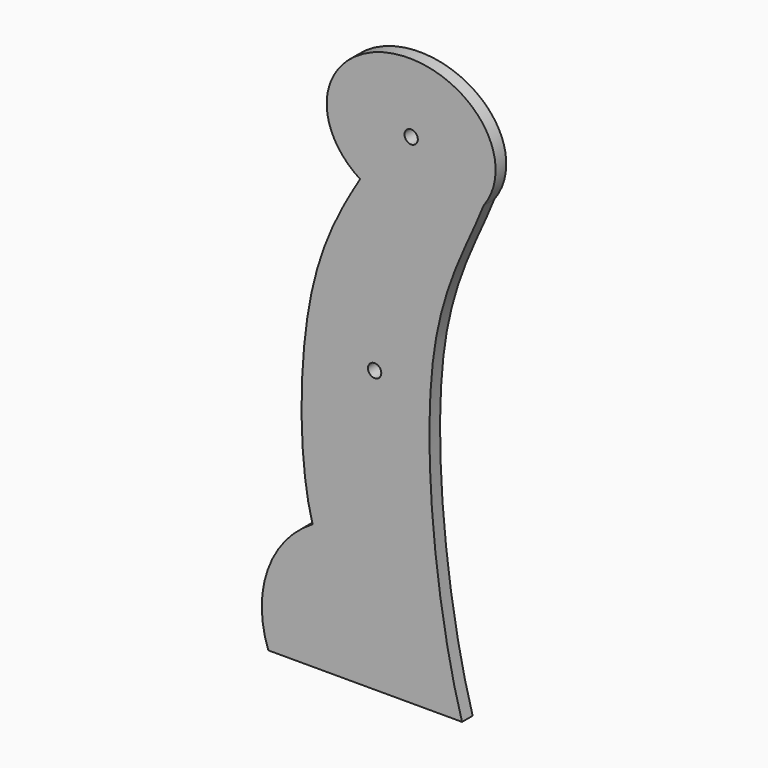
from build123d import *

# Parameters (mm, degrees)
F0_R     = 1.6
F1_DEPTH = 3.2
F2_DEPTH = 3.2010001


with BuildPart() as f1:
    # F0 (on Front) → F1 (new body)
    with BuildSketch(Plane.XZ):
        with BuildLine():
            Line((-25.5810216412, -48.3824339509), (21.0424683918, -48.3824339509))
            add(Edge.make_bspline(
                [(21.0424683918, -48.3824339509), (15.0553516547, -27.9676929951), (8.0965992639, 30.5672769191), (23.0166880517, 54.3425780011), (26.2280006902, 62.7438225516)],
                knots=[0, 0, 0, 0, 0.5992884336, 1, 1, 1, 1], degree=3))
            add(Edge.make_bspline(
                [(-3.4949489511, 58.6761125547), (14.5644131665, 47.1441731408), (26.2280006902, 62.7438225516)],
                knots=[0.9705727989, 0.9705727989, 0.9705727989, 2.6501995807, 2.6501995807, 2.6501995807], degree=2, weights=[1, 0.6676017714, 1]))
            add(Edge.make_bspline(
                [(-14.9455404435, -18.2068239581), (-18.4407745771, -5.8257132268), (-18.3102826694, 31.5612182002), (-8.7948256364, 49.9442476446), (-3.4949489511, 58.6761125547)],
                knots=[4.70329e-05, 4.70329e-05, 4.70329e-05, 4.70329e-05, 0.552918371, 1, 1, 1, 1], degree=3))
            ThreePointArc((-14.9455404435, -18.2068239581), (-25.7517393276, -31.3602059251), (-25.5810216412, -48.3824339509))
        make_face()
        with Locations((0, 19.2210804671)):
            Circle(F0_R, mode=Mode.SUBTRACT)
        with BuildLine():
            add(Edge.make_bspline(
                [(-3.4949489511, 58.6761125547), (14.5644131665, 47.1441731408), (26.2280006902, 62.7438225516)],
                knots=[0.9705727989, 0.9705727989, 0.9705727989, 2.6501995807, 2.6501995807, 2.6501995807], degree=2, weights=[1, 0.6676017714, 1]))
            add(Edge.make_bspline(
                [(26.2280006902, 62.7438225516), (39.6330624716, 80.6726342227), (14.6995807554, 87.3438953608), (-10.2339009609, 94.015156499), (-11.5097213972, 72.8410164241)],
                knots=[2.6501995807, 2.6501995807, 2.6501995807, 4.4666924439, 4.4666924439, 6.2831853072, 6.2831853072, 6.2831853072], degree=2, weights=[1, 0.6151292539, 1, 0.6151292539, 1]))
            add(Edge.make_bspline(
                [(-11.5097213972, 72.8410164241), (-12.0346408701, 64.1291960679), (-3.4949489511, 58.6761125547)],
                knots=[0, 0, 0, 0.9705727989, 0.9705727989, 0.9705727989], degree=2, weights=[1, 0.884541391, 1]))
        make_face()
        with Locations((8.7952595204, 71.6175660491)):
            Circle(F0_R, mode=Mode.SUBTRACT)
    extrude(amount=F1_DEPTH)

    # F0 (on Front) → F2 (cut, through all)
    with BuildSketch(Plane.XZ):
        with Locations((8.7952595204, 71.6175660491)):
            Circle(F0_R)
        with Locations((0, 19.2210804671)):
            Circle(F0_R)
    extrude(amount=F2_DEPTH, mode=Mode.SUBTRACT)


solid = f1.part
